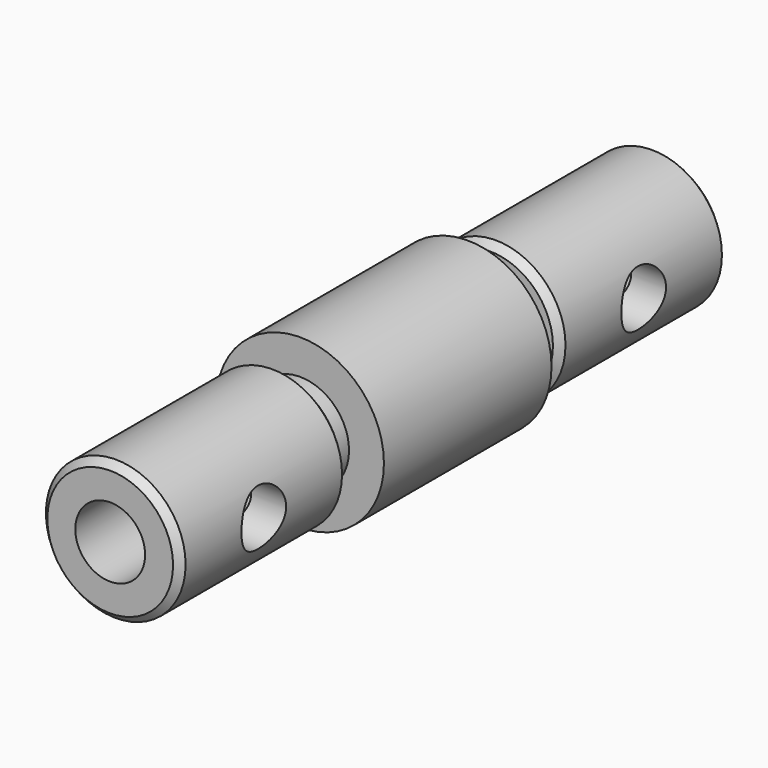
from build123d import *

# Parameters (mm, degrees)
F0_R      = 5
F1_DEPTH  = 15
F2_R      = 3.5
F3_DEPTH  = 2
F4_R      = 6
F5_DEPTH  = 15
F6_R      = 3.5
F7_DEPTH  = 2
F8_R      = 5
F9_DEPTH  = 15
F10_SIZE  = 0.5
F12_R     = 1.3
F13_DEPTH = 25
F12_R_2   = 2
F14_DEPTH = 5
F15_R     = 2.5
F16_DEPTH = 50


with BuildPart() as f1:
    # F0 (on Front) → F1 (new body)
    with BuildSketch(Plane.XZ):
        Circle(F0_R)
    extrude(amount=F1_DEPTH)

    # F2 (on face) → F3 (join)
    with BuildSketch(Plane.XZ.offset(15)):
        Circle(F2_R)
    extrude(amount=F3_DEPTH)

    # F4 (on face) → F5 (join)
    with BuildSketch(Plane.XZ.offset(17)):
        Circle(F4_R)
    extrude(amount=F5_DEPTH)

    # F6 (on face) → F7 (join)
    with BuildSketch(Plane.XZ.offset(32)):
        Circle(F6_R)
    extrude(amount=F7_DEPTH)

    # F8 (on face) → F9 (join)
    with BuildSketch(Plane.XZ.offset(34)):
        Circle(F8_R)
    extrude(amount=F9_DEPTH)

    # F10
    f10_edges = [f1.edges().sort_by_distance(p)[0] for p in [
        (-5, -49, 0),
        (-5, -34, 0),
        (-5, 0, 0),
        (-5, -15, 0),
    ]]
    chamfer(f10_edges, length=F10_SIZE)

    # F12 (on offset) → F13 (cut)
    with BuildSketch(Plane.YZ.offset(5)):
        with Locations((-7.5, 0)):
            Circle(F12_R)
        with Locations((-41.5, 0)):
            Circle(F12_R)
    extrude(amount=-F13_DEPTH, mode=Mode.SUBTRACT)

    # F12 (on offset) → F14 (cut)
    with BuildSketch(Plane.YZ.offset(5)):
        with Locations((-41.5, 0)):
            Circle(F12_R_2)
        with Locations((-41.5, 0)):
            Circle(F12_R, mode=Mode.SUBTRACT)
        with Locations((-7.5, 0)):
            Circle(F12_R_2)
        with Locations((-7.5, 0)):
            Circle(F12_R, mode=Mode.SUBTRACT)
    extrude(amount=-F14_DEPTH, mode=Mode.SUBTRACT)

    # F15 (on face) → F16 (cut)
    with BuildSketch(Plane(origin=(0, 0, 0), x_dir=(-1, 0, 0), z_dir=(0, 1, 0))):
        Circle(F15_R)
    extrude(amount=-F16_DEPTH, mode=Mode.SUBTRACT)


solid = f1.part
